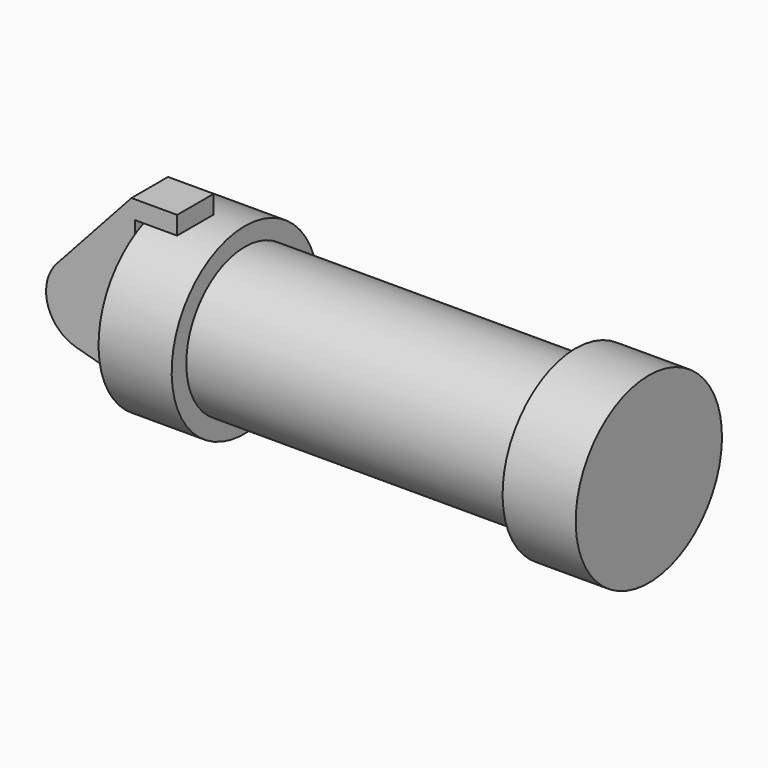
from build123d import *

# Parameters (mm, degrees)
F0_W     = 5.842
F0_H     = 12.7
F0_R     = 3.175
F2_DEPTH = 6.35
F3_DEPTH = 12.701


with BuildPart() as f1:
    # F0 (on Front) → F1 (revolve)
    with BuildSketch(Plane.XZ):
        Polygon((5.842, 12.7), (5.842, 0), (66.294, 0), (66.294, 12.7), (56.134, 12.7), (56.134, 10.16), (10.16, 10.16), (10.16, 12.7), align=None)
        with Locations((2.921, 6.35)):
            Rectangle(F0_W, F0_H)
    revolve(axis=Axis((33.147, 0, 0), (-1, 0, 0)))

    # F0 (on Front) → F3 (cut, through all)
    with BuildSketch(Plane.XZ):
        with Locations((-6.6548, 0)):
            Circle(F0_R)
    extrude(amount=-F3_DEPTH, mode=Mode.SUBTRACT)


with BuildPart() as f2:
    # F0 (on Front) → F2 (new body)
    with BuildSketch(Plane.XZ):
        with BuildLine():
            Line((-0.9398, 0), (0, 0))
            Line((0, 0), (0, 12.7))
            Line((0, 12.7), (5.842, 12.7))
            Line((5.842, 12.7), (5.842, 15.24))
            Line((5.842, 15.24), (-0.508, 15.24))
            Line((-0.508, 15.24), (-10.8806298187, 3.8475430269))
            ThreePointArc((-10.8806298187, 3.8475430269), (-4.5919612295, 5.3297205562), (-0.9398, 0))
        make_face()
        with BuildLine():
            ThreePointArc((-8.1826630726, -5.5069827884), (-3.1957909266, -4.5493385486), (-0.9398, 0))
            ThreePointArc((-0.9398, 0), (-4.5919612295, 5.3297205562), (-10.8806298187, 3.8475430269))
            ThreePointArc((-10.8806298187, 3.8475430269), (-12.1459778134, -1.5837270034), (-8.1826630726, -5.5069827884))
        make_face()
        with Locations((-6.6548, 0)):
            Circle(F0_R, mode=Mode.SUBTRACT)
        with Locations((-6.6548, 0)):
            Circle(F0_R)
        with BuildLine():
            Line((5.842, 0), (0, 0))
            Line((0, 0), (-0.9398, 0))
            ThreePointArc((-0.9398, 0), (-3.1957909266, -4.5493385486), (-8.1826630726, -5.5069827884))
            Line((-8.1826630726, -5.5069827884), (5.842, -9.398))
            Line((5.842, -9.398), (5.842, 0))
        make_face()
    extrude(amount=F2_DEPTH)


solid = Compound([f1.part, f2.part])
